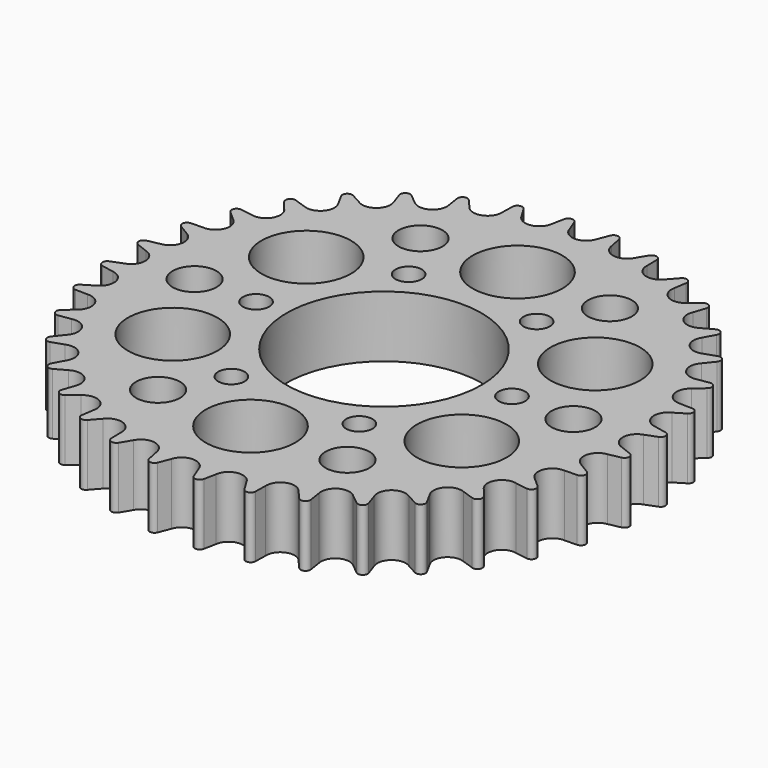
from build123d import *

# Parameters (mm, degrees)
F0_R     = 2.5
F0_R_2   = 5.1
F0_R_3   = 1.5
F0_R_4   = 11.1
F1_DEPTH = 7


with BuildPart() as f1:
    # F0 (on Top) → F1 (new body)
    with BuildSketch(Plane.XY):
        with BuildLine():
            ThreePointArc((1.543196, 28.32149), (0, 27.178424), (-1.543196, 28.32149))
            Line((-1.543196, 28.32149), (-2.055393, 29.636314))
            ThreePointArc((-2.055393, 29.636314), (-2.623742, 29.989505), (-3.122125, 29.542987))
            Line((-3.122125, 29.542987), (-3.398223, 28.159196))
            ThreePointArc((-3.398223, 28.159196), (-4.719484, 26.765522), (-6.437727, 27.623249))
            Line((-6.437727, 27.623249), (-7.170459, 28.829157))
            ThreePointArc((-7.170459, 28.829157), (-7.791504, 29.078289), (-8.204779, 28.552012))
            Line((-8.204779, 28.552012), (-8.23639, 27.141299))
            ThreePointArc((-8.23639, 27.141299), (-9.295568, 25.539364), (-11.13665, 26.08569))
            Line((-11.13665, 26.08569), (-12.067654, 27.14604))
            ThreePointArc((-12.067654, 27.14604), (-12.722525, 27.283544), (-13.038134, 26.693498))
            Line((-13.038134, 26.693498), (-12.824298, 25.298728))
            ThreePointArc((-12.824298, 25.298728), (-13.589212, 23.537205), (-15.497192, 23.755531))
            Line((-15.497192, 23.755531), (-16.59818, 24.638105))
            ThreePointArc((-16.59818, 24.638105), (-17.266979, 24.659802), (-17.475333, 24.023915))
            Line((-17.475333, 24.023915), (-17.022546, 22.687467))
            ThreePointArc((-17.022546, 22.687467), (-17.469954, 20.81988), (-19.386859, 20.703572))
            Line((-19.386859, 20.703572), (-20.624378, 21.381553))
            ThreePointArc((-20.624378, 21.381553), (-21.286785, 21.286785), (-21.381553, 20.624378))
            Line((-21.381553, 20.624378), (-20.703572, 19.386859))
            ThreePointArc((-20.703572, 19.386859), (-20.81988, 17.469954), (-22.687467, 17.022546))
            Line((-22.687467, 17.022546), (-24.023915, 17.475333))
            ThreePointArc((-24.023915, 17.475333), (-24.659802, 17.266979), (-24.638105, 16.59818))
            Line((-24.638105, 16.59818), (-23.755531, 15.497192))
            ThreePointArc((-23.755531, 15.497192), (-23.537205, 13.589212), (-25.298728, 12.824298))
            Line((-25.298728, 12.824298), (-26.693498, 13.038134))
            ThreePointArc((-26.693498, 13.038134), (-27.283544, 12.722525), (-27.14604, 12.067654))
            Line((-27.14604, 12.067654), (-26.08569, 11.13665))
            ThreePointArc((-26.08569, 11.13665), (-25.539364, 9.295568), (-27.141299, 8.23639))
            Line((-27.141299, 8.23639), (-28.552012, 8.204779))
            ThreePointArc((-28.552012, 8.204779), (-29.078289, 7.791504), (-28.829157, 7.170459))
            Line((-28.829157, 7.170459), (-27.623249, 6.437727))
            ThreePointArc((-27.623249, 6.437727), (-26.765522, 4.719484), (-28.159196, 3.398223))
            Line((-28.159196, 3.398223), (-29.542987, 3.122125))
            ThreePointArc((-29.542987, 3.122125), (-29.989505, 2.623742), (-29.636314, 2.055393))
            Line((-29.636314, 2.055393), (-28.32149, 1.543196))
            ThreePointArc((-28.32149, 1.543196), (-27.178424, 0), (-28.32149, -1.543196))
            Line((-28.32149, -1.543196), (-29.636314, -2.055393))
            ThreePointArc((-29.636314, -2.055393), (-29.989505, -2.623742), (-29.542987, -3.122125))
            Line((-29.542987, -3.122125), (-28.159196, -3.398223))
            ThreePointArc((-28.159196, -3.398223), (-26.765522, -4.719484), (-27.623249, -6.437727))
            Line((-27.623249, -6.437727), (-28.829157, -7.170459))
            ThreePointArc((-28.829157, -7.170459), (-29.078289, -7.791504), (-28.552012, -8.204779))
            Line((-28.552012, -8.204779), (-27.141299, -8.23639))
            ThreePointArc((-27.141299, -8.23639), (-25.539364, -9.295568), (-26.08569, -11.13665))
            Line((-26.08569, -11.13665), (-27.14604, -12.067654))
            ThreePointArc((-27.14604, -12.067654), (-27.283544, -12.722525), (-26.693498, -13.038134))
            Line((-26.693498, -13.038134), (-25.298728, -12.824298))
            ThreePointArc((-25.298728, -12.824298), (-23.537205, -13.589212), (-23.755531, -15.497192))
            Line((-23.755531, -15.497192), (-24.638105, -16.59818))
            ThreePointArc((-24.638105, -16.59818), (-24.659802, -17.266979), (-24.023915, -17.475333))
            Line((-24.023915, -17.475333), (-22.687467, -17.022546))
            ThreePointArc((-22.687467, -17.022546), (-20.81988, -17.469954), (-20.703572, -19.386859))
            Line((-20.703572, -19.386859), (-21.381553, -20.624378))
            ThreePointArc((-21.381553, -20.624378), (-21.286785, -21.286785), (-20.624378, -21.381553))
            Line((-20.624378, -21.381553), (-19.386859, -20.703572))
            ThreePointArc((-19.386859, -20.703572), (-17.469954, -20.81988), (-17.022546, -22.687467))
            Line((-17.022546, -22.687467), (-17.475333, -24.023915))
            ThreePointArc((-17.475333, -24.023915), (-17.266979, -24.659802), (-16.59818, -24.638105))
            Line((-16.59818, -24.638105), (-15.497192, -23.755531))
            ThreePointArc((-15.497192, -23.755531), (-13.589212, -23.537205), (-12.824298, -25.298728))
            Line((-12.824298, -25.298728), (-13.038134, -26.693498))
            ThreePointArc((-13.038134, -26.693498), (-12.722525, -27.283544), (-12.067654, -27.14604))
            Line((-12.067654, -27.14604), (-11.13665, -26.08569))
            ThreePointArc((-11.13665, -26.08569), (-9.295568, -25.539364), (-8.23639, -27.141299))
            Line((-8.23639, -27.141299), (-8.204779, -28.552012))
            ThreePointArc((-8.204779, -28.552012), (-7.791504, -29.078289), (-7.170459, -28.829157))
            Line((-7.170459, -28.829157), (-6.437727, -27.623249))
            ThreePointArc((-6.437727, -27.623249), (-4.719484, -26.765522), (-3.398223, -28.159196))
            Line((-3.398223, -28.159196), (-3.122125, -29.542987))
            ThreePointArc((-3.122125, -29.542987), (-2.623742, -29.989505), (-2.055393, -29.636314))
            Line((-2.055393, -29.636314), (-1.543196, -28.32149))
            ThreePointArc((-1.543196, -28.32149), (0, -27.178424), (1.543196, -28.32149))
            Line((1.543196, -28.32149), (2.055393, -29.636314))
            ThreePointArc((2.055393, -29.636314), (2.623742, -29.989505), (3.122125, -29.542987))
            Line((3.122125, -29.542987), (3.398223, -28.159196))
            ThreePointArc((3.398223, -28.159196), (4.719484, -26.765522), (6.437727, -27.623249))
            Line((6.437727, -27.623249), (7.170459, -28.829157))
            ThreePointArc((7.170459, -28.829157), (7.791504, -29.078289), (8.204779, -28.552012))
            Line((8.204779, -28.552012), (8.23639, -27.141299))
            ThreePointArc((8.23639, -27.141299), (9.295568, -25.539364), (11.13665, -26.08569))
            Line((11.13665, -26.08569), (12.067654, -27.14604))
            ThreePointArc((12.067654, -27.14604), (12.722525, -27.283544), (13.038134, -26.693498))
            Line((13.038134, -26.693498), (12.824298, -25.298728))
            ThreePointArc((12.824298, -25.298728), (13.589212, -23.537205), (15.497192, -23.755531))
            Line((15.497192, -23.755531), (16.59818, -24.638105))
            ThreePointArc((16.59818, -24.638105), (17.266979, -24.659802), (17.475333, -24.023915))
            Line((17.475333, -24.023915), (17.022546, -22.687467))
            ThreePointArc((17.022546, -22.687467), (17.469954, -20.81988), (19.386859, -20.703572))
            Line((19.386859, -20.703572), (20.624378, -21.381553))
            ThreePointArc((20.624378, -21.381553), (21.286785, -21.286785), (21.381553, -20.624378))
            Line((21.381553, -20.624378), (20.703572, -19.386859))
            ThreePointArc((20.703572, -19.386859), (20.81988, -17.469954), (22.687467, -17.022546))
            Line((22.687467, -17.022546), (24.023915, -17.475333))
            ThreePointArc((24.023915, -17.475333), (24.659802, -17.266979), (24.638105, -16.59818))
            Line((24.638105, -16.59818), (23.755531, -15.497192))
            ThreePointArc((23.755531, -15.497192), (23.537205, -13.589212), (25.298728, -12.824298))
            Line((25.298728, -12.824298), (26.693498, -13.038134))
            ThreePointArc((26.693498, -13.038134), (27.283544, -12.722525), (27.14604, -12.067654))
            Line((27.14604, -12.067654), (26.08569, -11.13665))
            ThreePointArc((26.08569, -11.13665), (25.539364, -9.295568), (27.141299, -8.23639))
            Line((27.141299, -8.23639), (28.552012, -8.204779))
            ThreePointArc((28.552012, -8.204779), (29.078289, -7.791504), (28.829157, -7.170459))
            Line((28.829157, -7.170459), (27.623249, -6.437727))
            ThreePointArc((27.623249, -6.437727), (26.765522, -4.719484), (28.159196, -3.398223))
            Line((28.159196, -3.398223), (29.542987, -3.122125))
            ThreePointArc((29.542987, -3.122125), (29.989505, -2.623742), (29.636314, -2.055393))
            Line((29.636314, -2.055393), (28.32149, -1.543196))
            ThreePointArc((28.32149, -1.543196), (27.178424, 0), (28.32149, 1.543196))
            Line((28.32149, 1.543196), (29.636314, 2.055393))
            ThreePointArc((29.636314, 2.055393), (29.989505, 2.623742), (29.542987, 3.122125))
            Line((29.542987, 3.122125), (28.159196, 3.398223))
            ThreePointArc((28.159196, 3.398223), (26.765522, 4.719484), (27.623249, 6.437727))
            Line((27.623249, 6.437727), (28.829157, 7.170459))
            ThreePointArc((28.829157, 7.170459), (29.078289, 7.791504), (28.552012, 8.204779))
            Line((28.552012, 8.204779), (27.141299, 8.23639))
            ThreePointArc((27.141299, 8.23639), (25.539364, 9.295568), (26.08569, 11.13665))
            Line((26.08569, 11.13665), (27.14604, 12.067654))
            ThreePointArc((27.14604, 12.067654), (27.283544, 12.722525), (26.693498, 13.038134))
            Line((26.693498, 13.038134), (25.298728, 12.824298))
            ThreePointArc((25.298728, 12.824298), (23.537205, 13.589212), (23.755531, 15.497192))
            Line((23.755531, 15.497192), (24.638105, 16.59818))
            ThreePointArc((24.638105, 16.59818), (24.659802, 17.266979), (24.023915, 17.475333))
            Line((24.023915, 17.475333), (22.687467, 17.022546))
            ThreePointArc((22.687467, 17.022546), (20.81988, 17.469954), (20.703572, 19.386859))
            Line((20.703572, 19.386859), (21.381553, 20.624378))
            ThreePointArc((21.381553, 20.624378), (21.286785, 21.286785), (20.624378, 21.381553))
            Line((20.624378, 21.381553), (19.386859, 20.703572))
            ThreePointArc((19.386859, 20.703572), (17.469954, 20.81988), (17.022546, 22.687467))
            Line((17.022546, 22.687467), (17.475333, 24.023915))
            ThreePointArc((17.475333, 24.023915), (17.266979, 24.659802), (16.59818, 24.638105))
            Line((16.59818, 24.638105), (15.497192, 23.755531))
            ThreePointArc((15.497192, 23.755531), (13.589212, 23.537205), (12.824298, 25.298728))
            Line((12.824298, 25.298728), (13.038134, 26.693498))
            ThreePointArc((13.038134, 26.693498), (12.722525, 27.283544), (12.067654, 27.14604))
            Line((12.067654, 27.14604), (11.13665, 26.08569))
            ThreePointArc((11.13665, 26.08569), (9.295568, 25.539364), (8.23639, 27.141299))
            Line((8.23639, 27.141299), (8.204779, 28.552012))
            ThreePointArc((8.204779, 28.552012), (7.791504, 29.078289), (7.170459, 28.829157))
            Line((7.170459, 28.829157), (6.437727, 27.623249))
            ThreePointArc((6.437727, 27.623249), (4.719484, 26.765522), (3.398223, 28.159196))
            Line((3.398223, 28.159196), (3.122125, 29.542987))
            ThreePointArc((3.122125, 29.542987), (2.623742, 29.989505), (2.055393, 29.636314))
            Line((2.055393, 29.636314), (1.543196, 28.32149))
        make_face()
        with Locations((-10.783906, -18.678273)):
            Circle(F0_R, mode=Mode.SUBTRACT)
        with Locations((-16.454483, -9.5)):
            Circle(F0_R_2, mode=Mode.SUBTRACT)
        with Locations((-7.283906, -12.616095)):
            Circle(F0_R_3, mode=Mode.SUBTRACT)
        with Locations((0, -19)):
            Circle(F0_R_2, mode=Mode.SUBTRACT)
        with Locations((10.783906, -18.678273)):
            Circle(F0_R, mode=Mode.SUBTRACT)
        with Locations((7.283906, -12.616095)):
            Circle(F0_R_3, mode=Mode.SUBTRACT)
        with Locations((16.454483, -9.5)):
            Circle(F0_R_2, mode=Mode.SUBTRACT)
        with Locations((-21.567812, 0)):
            Circle(F0_R, mode=Mode.SUBTRACT)
        with Locations((-16.454483, 9.5)):
            Circle(F0_R_2, mode=Mode.SUBTRACT)
        with Locations((-14.567812, 0)):
            Circle(F0_R_3, mode=Mode.SUBTRACT)
        with Locations((-7.283906, 12.616095)):
            Circle(F0_R_3, mode=Mode.SUBTRACT)
        with Locations((-10.783906, 18.678273)):
            Circle(F0_R, mode=Mode.SUBTRACT)
        Circle(F0_R_4, mode=Mode.SUBTRACT)
        with Locations((14.567812, 0)):
            Circle(F0_R_3, mode=Mode.SUBTRACT)
        with Locations((7.283906, 12.616095)):
            Circle(F0_R_3, mode=Mode.SUBTRACT)
        with Locations((21.567812, 0)):
            Circle(F0_R, mode=Mode.SUBTRACT)
        with Locations((16.454483, 9.5)):
            Circle(F0_R_2, mode=Mode.SUBTRACT)
        with Locations((0, 19)):
            Circle(F0_R_2, mode=Mode.SUBTRACT)
        with Locations((10.783906, 18.678273)):
            Circle(F0_R, mode=Mode.SUBTRACT)
    extrude(amount=F1_DEPTH)


solid = f1.part
